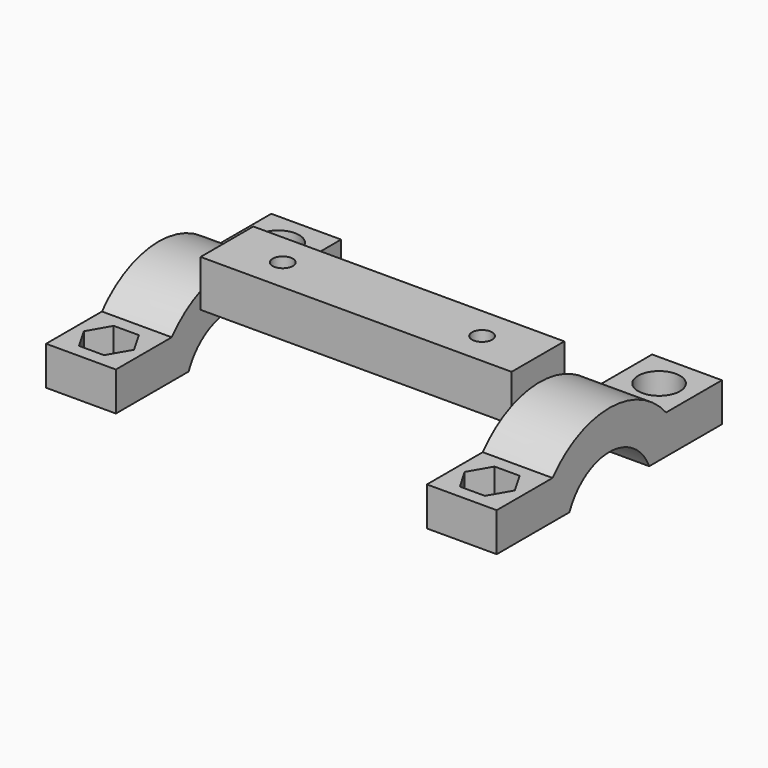
from build123d import *

# Parameters (mm, degrees)
SKETCH_W        = 20.1
SKETCH_H        = 8.5
SKETCH_R        = 1.3
PAD_DEPTH       = 6
POCKET_DEPTH    = 3
PAD001_DEPTH    = 9
SKETCH003_R     = 1.6
POCKET001_DEPTH = 5
POCKET002_DEPTH = 3.8
SKETCH005_R     = 2.7
POCKET003_DEPTH = 3


with BuildPart() as pocket003:
    # Sketch → Pad (new body)
    with BuildSketch(Plane.XY):
        with Locations((10.05, 4.25)):
            Rectangle(SKETCH_W, SKETCH_H)
        with Locations((7.2, 4.25)):
            Circle(SKETCH_R, mode=Mode.SUBTRACT)
    extrude(amount=PAD_DEPTH)

    # Sketch001 → Pocket (cut)
    with BuildSketch(Plane(origin=(0, 0, 0), x_dir=(1, 0, 0), z_dir=(0, 0, -1))):
        Polygon((5.721983, -1.69), (8.678017, -1.69), (10.156033, -4.25), (8.678017, -6.81), (5.721983, -6.81), (4.243967, -4.25), align=None)
    extrude(amount=-POCKET_DEPTH, mode=Mode.SUBTRACT)

    # Sketch002 → Pad001 (new body)
    with BuildSketch(Plane(origin=(0, 0, 0), x_dir=(0, -1, 0), z_dir=(-1, 0, 0))):
        with BuildLine():
            ThreePointArc((1.92947, -6.231983), (-4.5, -2), (-10.92947, -6.231983))
            Line((-10.92947, -6.231983), (-22.64647, -6.231983))
            Line((-22.64647, -1.231983), (-22.64647, -6.231983))
            Line((-13.64647, -1.231983), (-22.64647, -1.231983))
            ThreePointArc((4.64647, -1.231983), (-4.5, 3), (-13.64647, -1.231983))
            Line((13.64647, -1.231983), (4.64647, -1.231983))
            Line((13.64647, -6.231983), (13.64647, -1.231983))
            Line((13.64647, -6.231983), (1.92947, -6.231983))
        make_face()
    extrude(amount=PAD001_DEPTH)

    # Sketch003 → Pocket001 (cut)
    with BuildSketch(Plane.XY.offset(-1.231983)):
        with Locations((-4.5, 18.14647)):
            Circle(SKETCH003_R)
        with Locations((-4.5, -9.14647)):
            Circle(SKETCH003_R)
    extrude(amount=-POCKET001_DEPTH, mode=Mode.SUBTRACT)

    # Sketch004 → Pocket002 (cut)
    with BuildSketch(Plane.XY.offset(-1.231983)):
        Polygon((-6.116581, -6.34647), (-2.883419, -6.34647), (-1.266838, -9.14647), (-2.883419, -11.94647), (-6.116581, -11.94647), (-7.733162, -9.14647), align=None)
    extrude(amount=-POCKET002_DEPTH, mode=Mode.SUBTRACT)

    # Sketch005 → Pocket003 (cut)
    with BuildSketch(Plane.XY.offset(-1.231983)):
        with Locations((-4.5, 18.14647)):
            Circle(SKETCH005_R)
    extrude(amount=-POCKET003_DEPTH, mode=Mode.SUBTRACT)


with BuildPart() as part_mirroring:
    # Part__Mirroring: instance of Pocket003
    add(pocket003.part.mirror(Plane(origin=(0, 0, 0), x_dir=(0, -1, 0), z_dir=(1, 0, 0))))


with BuildPart() as part_mirroring_1:
    # Part__Mirroring placement: moved
    add(part_mirroring.part.moved(Location((40.1, 0, 0))))


with BuildPart() as fusion:
    # Fusion base: copy of Pocket003
    add(pocket003.part)

    # Fusion: union Part__Mirroring
    add(part_mirroring_1.part)


solid = fusion.part
